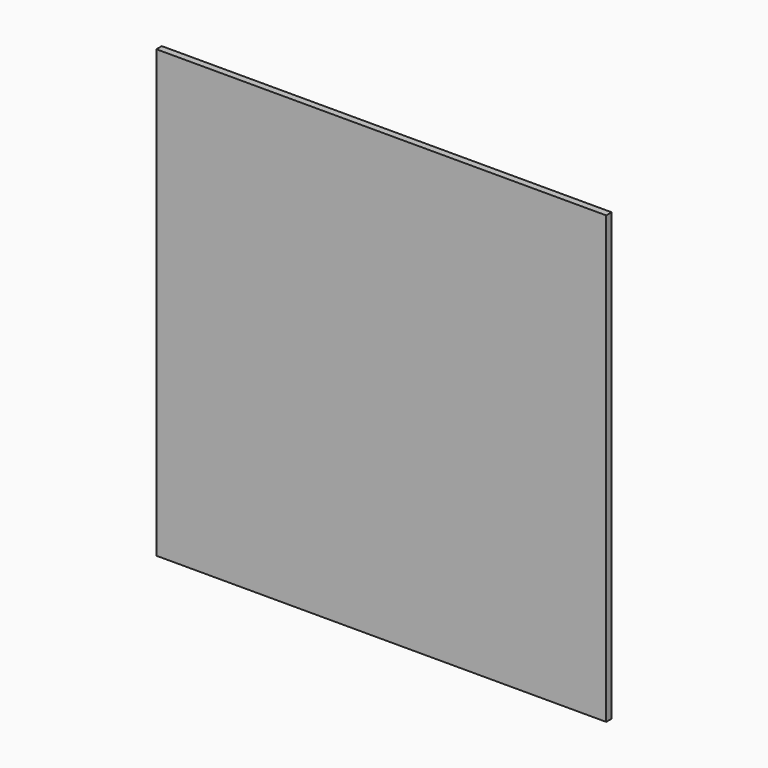
from build123d import *

# Parameters (mm, degrees)
F0_W     = 70.556748
F0_H     = 76.232128
F0_W_2   = 6.35
F1_DEPTH = 1.15906


with BuildPart() as f1:
    # F0 (on Front) → F1 (new body)
    with BuildSketch(Plane.XZ):
        with Locations((-41.628374, 38.116064)):
            Rectangle(F0_W, F0_H)
        with Locations((-3.175, 38.116064)):
            Rectangle(F0_W_2, F0_H)
    extrude(amount=F1_DEPTH)


solid = f1.part
